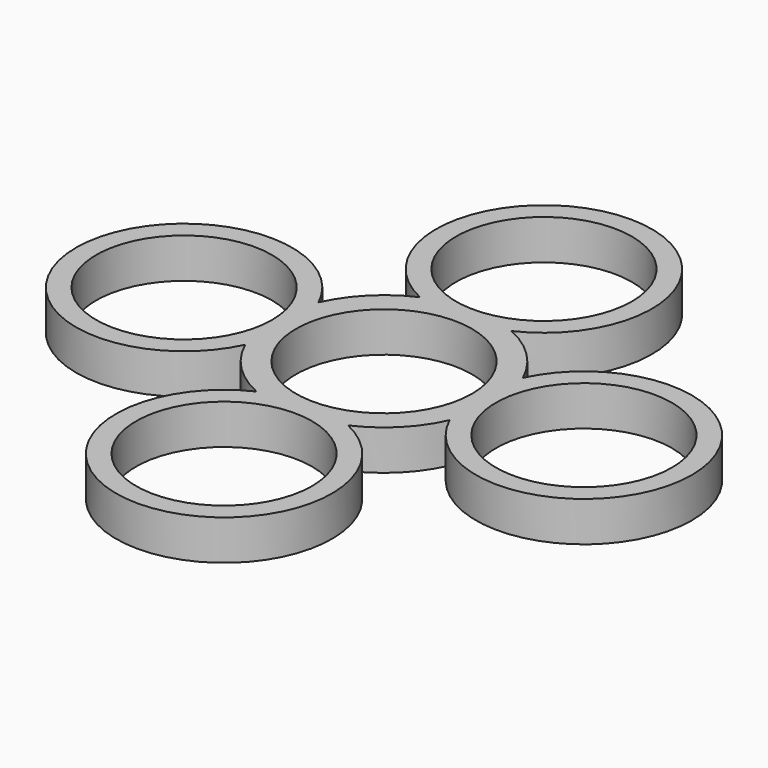
from build123d import *

# Parameters (mm, degrees)
F0_R     = 11
F1_DEPTH = 5


with BuildPart() as f1:
    # F0 (on Top) → F1 (new body)
    with BuildSketch(Plane.XY):
        with BuildLine():
            ThreePointArc((5.727074, 12.775), (0, 38.5), (-5.727074, 12.775))
            ThreePointArc((-5.727074, 12.775), (-9.899495, 9.899495), (-12.775, 5.727074))
            ThreePointArc((-12.775, 5.727074), (-38.5, 0), (-12.775, -5.727074))
            ThreePointArc((-12.775, -5.727074), (-9.899495, -9.899495), (-5.727074, -12.775))
            ThreePointArc((-5.727074, -12.775), (0, -38.5), (5.727074, -12.775))
            ThreePointArc((5.727074, -12.775), (9.899495, -9.899495), (12.775, -5.727074))
            ThreePointArc((12.775, -5.727074), (38.5, 0), (12.775, 5.727074))
            ThreePointArc((12.775, 5.727074), (9.899495, 9.899495), (5.727074, 12.775))
        make_face()
        with Locations((0, -25)):
            Circle(F0_R, mode=Mode.SUBTRACT)
        with Locations((-25, 0)):
            Circle(F0_R, mode=Mode.SUBTRACT)
        Circle(F0_R, mode=Mode.SUBTRACT)
        with Locations((25, 0)):
            Circle(F0_R, mode=Mode.SUBTRACT)
        with Locations((0, 25)):
            Circle(F0_R, mode=Mode.SUBTRACT)
    extrude(amount=F1_DEPTH)


solid = f1.part
